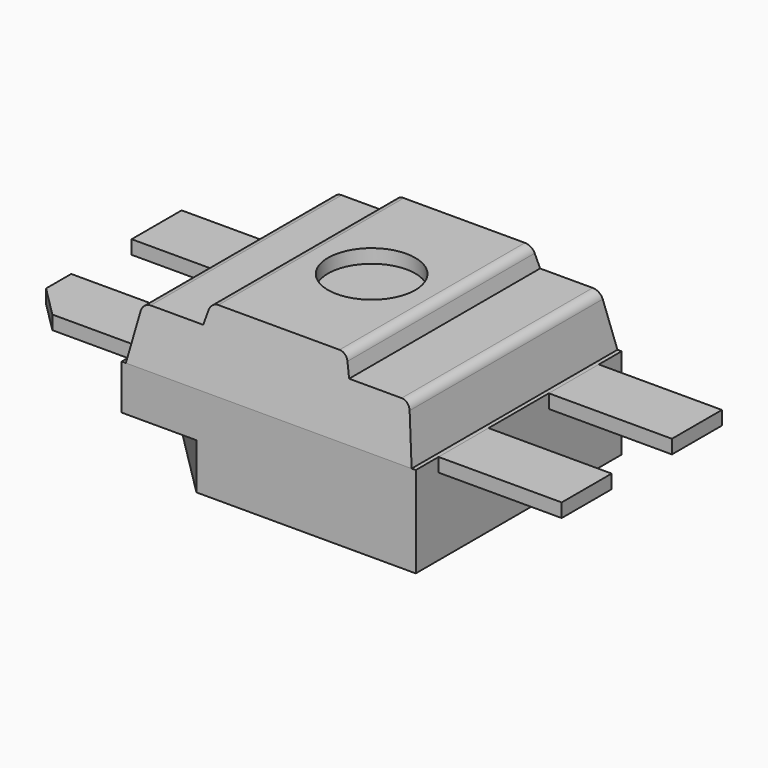
from build123d import *

# Parameters (mm, degrees)
SKETCH_W             = 3.2
SKETCH_H             = 0.99
PAD_DEPTH            = 1.4
PAD001_DEPTH         = 1.4
POCKET_DEPTH         = 1.601
POCKET_DEPTH_BACK    = 1.601
POCKET001_DEPTH      = 1.601
POCKET001_DEPTH_BACK = 1.601
SKETCH007_W          = 0.475
SKETCH007_H          = 0.15
POCKET003_DEPTH      = 0.5
FILLET_R             = 5e-05
SKETCH009_W          = 1.34
SKETCH009_H          = 0.68
PAD002_DEPTH         = 0.15
PAD003_DEPTH         = 0.15
MIRROREDSKETCH002_W  = 1.34
MIRROREDSKETCH002_H  = 0.68
PAD004_DEPTH         = 0.15
MIRROREDSKETCH003_W  = 1.34
MIRROREDSKETCH003_H  = 0.68
PAD005_DEPTH         = 0.15


with BuildPart() as body:
    # Sketch → Pad (new body, symmetric)
    with BuildSketch(Plane.XZ):
        with Locations((0, -0.345)):
            Rectangle(SKETCH_W, SKETCH_H)
    extrude(amount=PAD_DEPTH, both=True)

    # Sketch002 → Pad001 (join, symmetric)
    with BuildSketch(Plane.XZ):
        with BuildLine():
            Line((-1.555, 0.15), (-1.46405, 0.640724))
            ThreePointArc((-1.365724, 0.7225), (-1.429668, 0.699384), (-1.46405, 0.640724))
            Line((-1.365724, 0.7225), (-0.794, 0.7225))
            Line((-0.794, 0.7225), (-0.755581, 0.865882))
            ThreePointArc((-0.658988, 0.94), (-0.719864, 0.919335), (-0.755581, 0.865882))
            Line((-0.658988, 0.94), (0, 0.94))
            Line((0, 0.94), (0, 0.15))
            Line((0, 0.15), (-1.555, 0.15))
        make_face()
    pad001 = extrude(amount=PAD001_DEPTH, both=True)

    # Mirrored: Pad001 across Sketch002 V_Axis
    add(pad001.mirror(Plane(origin=(0, 0, 0), x_dir=(0, -1, 0), z_dir=(1, 0, 0))))

    # Sketch003 → Pocket (cut, two sides)
    with BuildSketch(Plane.YZ) as pocket_sk:
        Polygon((-1.4, 0.15), (-1.260702, 0.94), (-1.4, 0.94), align=None)
    extrude(amount=-POCKET_DEPTH, mode=Mode.SUBTRACT)
    extrude(pocket_sk.sketch, amount=POCKET_DEPTH_BACK, mode=Mode.SUBTRACT)

    # MirroredSketch → Pocket001 (cut, two sides)
    with BuildSketch(Plane.YZ) as pocket001_sk:
        Polygon((1.4, 0.15), (1.260702, 0.94), (1.4, 0.94), align=None)
    extrude(amount=-POCKET001_DEPTH, mode=Mode.SUBTRACT)
    extrude(pocket001_sk.sketch, amount=POCKET001_DEPTH_BACK, mode=Mode.SUBTRACT)

    # Sketch006 → Groove (revolve, cut)
    with BuildSketch(Plane.XZ):
        Polygon((0, 0.15), (0.9, 0.15), (1.2, -0.84), (0, -0.84), align=None)
    revolve(axis=Axis((0, 0, 0), (0, 0, 1)), mode=Mode.SUBTRACT)

    # Sketch007 → Groove001 (revolve, cut)
    with BuildSketch(Plane.XZ):
        with Locations((0.2375, 0.865)):
            Rectangle(SKETCH007_W, SKETCH007_H)
    revolve(axis=Axis((0, 0, 0), (0, 0, 1)), mode=Mode.SUBTRACT)

    # Sketch008 (on Face3 of Groove001) → Pocket003 (cut)
    with BuildSketch(Plane(origin=(0, 0, -0.84), x_dir=(1, 0, 0), z_dir=(0, 0, -1))):
        Polygon((-1.6, 1.4), (-0.786827, 1.4), (-1.6, 0.586827), align=None)
    extrude(amount=-POCKET003_DEPTH, mode=Mode.SUBTRACT)

    # Fillet
    fillet_edges = [body.edges().sort_by_distance(p)[0] for p in [
        (0.406586, -1.4, -0.84),
        (1.6, 0, -0.84),
        (0, 1.4, -0.84),
        (-1.6, 0.406586, -0.84),
    ]]
    fillet(fillet_edges, radius=FILLET_R)


with BuildPart() as pin1:
    # Sketch009 → Pad002 (new body)
    with BuildSketch(Plane.XY):
        with Locations((-2.27, 0.75)):
            Rectangle(SKETCH009_W, SKETCH009_H)
    extrude(amount=PAD002_DEPTH)


with BuildPart() as pin2:
    # MirroredSketch001 → Pad003 (new body)
    with BuildSketch(Plane.XY):
        Polygon((-2.941863, -0.751761), (-2.941863, -0.41), (-1.6, -0.41), (-1.6, -1.093521), (-2.600102, -1.093521), align=None)
    extrude(amount=PAD003_DEPTH)


with BuildPart() as pin3:
    # MirroredSketch002 → Pad004 (new body)
    with BuildSketch(Plane.XY):
        with Locations((2.27, 0.75)):
            Rectangle(MIRROREDSKETCH002_W, MIRROREDSKETCH002_H)
    extrude(amount=PAD004_DEPTH)


with BuildPart() as pin4:
    # MirroredSketch003 → Pad005 (new body)
    with BuildSketch(Plane.XY):
        with Locations((2.27, -0.75)):
            Rectangle(MIRROREDSKETCH003_W, MIRROREDSKETCH003_H)
    extrude(amount=PAD005_DEPTH)


solid = Compound([body.part, pin1.part, pin2.part, pin3.part, pin4.part])
